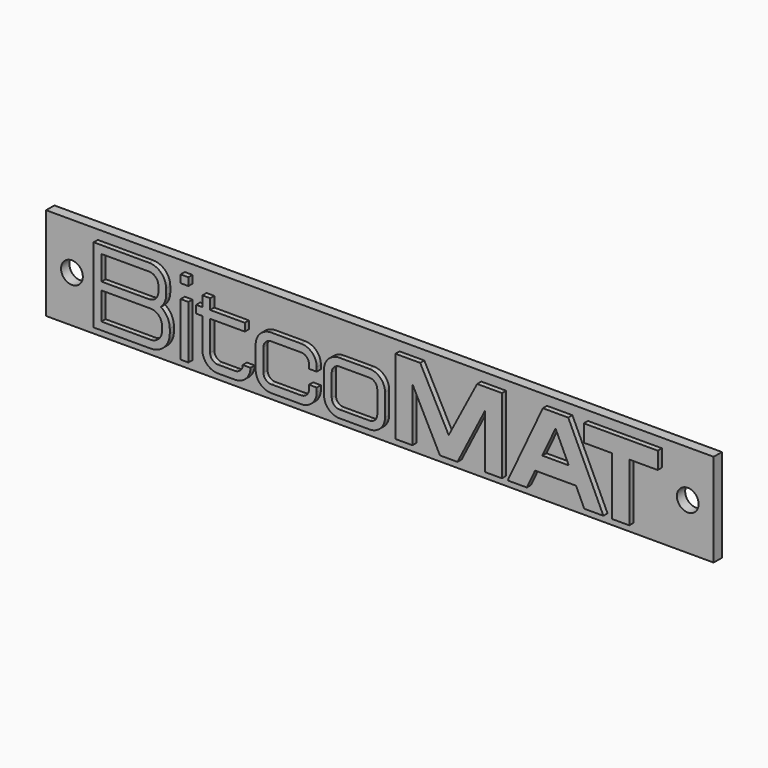
from build123d import *

# Parameters (mm, degrees)
F0_W     = 129
F0_H     = 18
F0_W_2   = 1.5
F0_H_2   = 10.3
F0_R     = 2.1
F0_H_3   = 1.5
F1_DEPTH = 2
F2_DEPTH = 1


with BuildPart() as f1:
    # F0 (on Front) → F1 (new body)
    with BuildSketch(Plane.XZ):
        with Locations((64.5, 9)):
            Rectangle(F0_W, F0_H)
        with Locations((27.55, 6.85)):
            Rectangle(F0_W_2, F0_H_2, mode=Mode.SUBTRACT)
        with BuildLine():
            Line((10, 1.7), (10, 16.2))
            Line((10, 16.2), (20.7, 16.2))
            ThreePointArc((20.7, 16.2), (23.0334523779, 15.2334523779), (24, 12.9))
            Line((24, 12.9), (24, 11.8))
            ThreePointArc((24, 11.8), (23.7362385725, 10.5072295908), (22.9871179813, 9.4211155263))
            ThreePointArc((22.9871179813, 9.4211155263), (24.2436350389, 8.0801212696), (24.7, 6.3))
            Line((24.7, 6.3), (24.7, 5.4))
            ThreePointArc((24.7, 5.4), (23.6162950904, 2.7837049096), (21, 1.7))
            Line((21, 1.7), (10, 1.7))
        make_face(mode=Mode.SUBTRACT)
        with BuildLine():
            Line((32.5, 10.5), (32.5, 4.7))
            ThreePointArc((32.5, 4.7), (32.9393398282, 3.6393398282), (34, 3.2))
            Line((34, 3.2), (37.3, 3.2))
            ThreePointArc((37.3, 3.2), (38.3606601718, 3.6393398282), (38.8, 4.7))
            Line((38.8, 4.7), (40.3, 4.7))
            ThreePointArc((40.3, 4.7), (39.4213203436, 2.5786796564), (37.3, 1.7))
            Line((37.3, 1.7), (34, 1.7))
            ThreePointArc((34, 1.7), (31.8786796564, 2.5786796564), (31, 4.7))
            Line((31, 4.7), (31, 10.5))
            Line((31, 10.5), (29.8, 10.5))
            Line((29.8, 10.5), (29.8, 12))
            Line((29.8, 12), (31, 12))
            Line((31, 12), (31, 14))
            Line((31, 14), (32.5, 14))
            Line((32.5, 14), (32.5, 12))
            Line((32.5, 12), (39.2, 12))
            Line((39.2, 12), (39.2, 10.5))
            Line((39.2, 10.5), (32.5, 10.5))
        make_face(mode=Mode.SUBTRACT)
        with BuildLine():
            Line((50.1, 10.5), (44.3, 10.5))
            ThreePointArc((44.3, 10.5), (43.2393398282, 10.0606601718), (42.8, 9))
            Line((42.8, 9), (42.8, 4.7))
            ThreePointArc((42.8, 4.7), (43.2393398282, 3.6393398282), (44.3, 3.2))
            Line((44.3, 3.2), (50.1, 3.2))
            ThreePointArc((50.1, 3.2), (51.1606601718, 3.6393398282), (51.6, 4.7))
            Line((51.6, 4.7), (51.6, 5.5))
            Line((51.6, 5.5), (53.1, 5.5))
            Line((53.1, 5.5), (53.1, 4.7))
            ThreePointArc((53.1, 4.7), (52.2213203436, 2.5786796564), (50.1, 1.7))
            Line((50.1, 1.7), (44.3, 1.7))
            ThreePointArc((44.3, 1.7), (42.1786796564, 2.5786796564), (41.3, 4.7))
            Line((41.3, 4.7), (41.3, 9))
            ThreePointArc((41.3, 9), (42.1786796564, 11.1213203436), (44.3, 12))
            Line((44.3, 12), (50.1, 12))
            ThreePointArc((50.1, 12), (52.2213203436, 11.1213203436), (53.1, 9))
            Line((53.1, 9), (53.1, 8.2))
            Line((53.1, 8.2), (51.6, 8.2))
            Line((51.6, 8.2), (51.6, 9))
            ThreePointArc((51.6, 9), (51.1606601718, 10.0606601718), (50.1, 10.5))
        make_face(mode=Mode.SUBTRACT)
        with BuildLine():
            ThreePointArc((54.5, 9), (55.3786796564, 11.1213203436), (57.5, 12))
            Line((57.5, 12), (63.3, 12))
            ThreePointArc((63.3, 12), (65.4213203436, 11.1213203436), (66.3, 9))
            Line((66.3, 9), (66.3, 4.7))
            ThreePointArc((66.3, 4.7), (65.4213203436, 2.5786796564), (63.3, 1.7))
            Line((63.3, 1.7), (57.5, 1.7))
            ThreePointArc((57.5, 1.7), (55.3786796564, 2.5786796564), (54.5, 4.7))
            Line((54.5, 4.7), (54.5, 9))
        make_face(mode=Mode.SUBTRACT)
        Polygon((71.6, 12.1), (71.6, 1.7), (68.3, 1.7), (68.3, 16.2), (73.1, 16.2), (78.6, 5.7), (84.1, 16.2), (88.9, 16.2), (88.9, 1.7), (85.6, 1.7), (85.6, 12.1), (80.3, 1.7), (76.9, 1.7), align=None, mode=Mode.SUBTRACT)
        Polygon((93.7, 1.7), (90, 1.7), (96.8, 16.2), (101.7, 16.2), (108.5, 1.7), (104.8, 1.7), (103.2055172414, 5.1), (95.2944827586, 5.1), align=None, mode=Mode.SUBTRACT)
        Polygon((104.7, 12.9), (104.7, 16.2), (119, 16.2), (119, 12.9), (113.5, 12.9), (113.5, 1.7), (110.2, 1.7), (110.2, 12.9), align=None, mode=Mode.SUBTRACT)
        with Locations((5, 9)):
            Circle(F0_R, mode=Mode.SUBTRACT)
        with Locations((27.55, 15.45)):
            Rectangle(F0_W_2, F0_H_3, mode=Mode.SUBTRACT)
        with Locations((124, 9)):
            Circle(F0_R, mode=Mode.SUBTRACT)
        with BuildLine():
            Line((20.7, 16.2), (10, 16.2))
            Line((10, 16.2), (10, 1.7))
            Line((10, 1.7), (21, 1.7))
            ThreePointArc((21, 1.7), (23.6162950904, 2.7837049096), (24.7, 5.4))
            Line((24.7, 5.4), (24.7, 6.3))
            ThreePointArc((24.7, 6.3), (24.2436350389, 8.0801212696), (22.9871179813, 9.4211155263))
            ThreePointArc((22.9871179813, 9.4211155263), (23.7362385725, 10.5072295908), (24, 11.8))
            Line((24, 11.8), (24, 12.9))
            ThreePointArc((24, 12.9), (23.0334523779, 15.2334523779), (20.7, 16.2))
        make_face()
        with BuildLine():
            Line((11.5, 8.5), (21, 8.5))
            ThreePointArc((21, 8.5), (22.5556349186, 7.8556349186), (23.2, 6.3))
            Line((23.2, 6.3), (23.2, 5.4))
            ThreePointArc((23.2, 5.4), (22.5556349186, 3.8443650814), (21, 3.2))
            Line((21, 3.2), (11.5, 3.2))
            Line((11.5, 3.2), (11.5, 8.5))
        make_face(mode=Mode.SUBTRACT)
        with BuildLine():
            Line((11.5, 14.7), (20.7, 14.7))
            ThreePointArc((20.7, 14.7), (21.9727922061, 14.1727922061), (22.5, 12.9))
            Line((22.5, 12.9), (22.5, 11.8))
            ThreePointArc((22.5, 11.8), (21.9727922061, 10.5272077939), (20.7, 10))
            Line((20.7, 10), (11.5, 10))
            Line((11.5, 10), (11.5, 14.7))
        make_face(mode=Mode.SUBTRACT)
        Polygon((68.3, 1.7), (71.6, 1.7), (71.6, 12.1), (76.9, 1.7), (80.3, 1.7), (85.6, 12.1), (85.6, 1.7), (88.9, 1.7), (88.9, 16.2), (84.1, 16.2), (78.6, 5.7), (73.1, 16.2), (68.3, 16.2), align=None)
        Polygon((96.8, 16.2), (90, 1.7), (93.7, 1.7), (95.2944827586, 5.1), (103.2055172414, 5.1), (104.8, 1.7), (108.5, 1.7), (101.7, 16.2), align=None)
        Polygon((99.25, 13.5492647059), (101.8055172414, 8.1), (96.6944827586, 8.1), align=None, mode=Mode.SUBTRACT)
        with BuildLine():
            Line((63.3, 12), (57.5, 12))
            ThreePointArc((57.5, 12), (55.3786796564, 11.1213203436), (54.5, 9))
            Line((54.5, 9), (54.5, 4.7))
            ThreePointArc((54.5, 4.7), (55.3786796564, 2.5786796564), (57.5, 1.7))
            Line((57.5, 1.7), (63.3, 1.7))
            ThreePointArc((63.3, 1.7), (65.4213203436, 2.5786796564), (66.3, 4.7))
            Line((66.3, 4.7), (66.3, 9))
            ThreePointArc((66.3, 9), (65.4213203436, 11.1213203436), (63.3, 12))
        make_face()
        with BuildLine():
            ThreePointArc((56, 9), (56.4393398282, 10.0606601718), (57.5, 10.5))
            Line((57.5, 10.5), (63.3, 10.5))
            ThreePointArc((63.3, 10.5), (64.3606601718, 10.0606601718), (64.8, 9))
            Line((64.8, 9), (64.8, 4.7))
            ThreePointArc((64.8, 4.7), (64.3606601718, 3.6393398282), (63.3, 3.2))
            Line((63.3, 3.2), (57.5, 3.2))
            ThreePointArc((57.5, 3.2), (56.4393398282, 3.6393398282), (56, 4.7))
            Line((56, 4.7), (56, 9))
        make_face(mode=Mode.SUBTRACT)
        Polygon((119, 16.2), (104.7, 16.2), (104.7, 12.9), (110.2, 12.9), (110.2, 1.7), (113.5, 1.7), (113.5, 12.9), (119, 12.9), align=None)
        with BuildLine():
            Line((63.3, 10.5), (57.5, 10.5))
            ThreePointArc((57.5, 10.5), (56.4393398282, 10.0606601718), (56, 9))
            Line((56, 9), (56, 4.7))
            ThreePointArc((56, 4.7), (56.4393398282, 3.6393398282), (57.5, 3.2))
            Line((57.5, 3.2), (63.3, 3.2))
            ThreePointArc((63.3, 3.2), (64.3606601718, 3.6393398282), (64.8, 4.7))
            Line((64.8, 4.7), (64.8, 9))
            ThreePointArc((64.8, 9), (64.3606601718, 10.0606601718), (63.3, 10.5))
        make_face()
        with BuildLine():
            ThreePointArc((23.2, 6.3), (22.5556349186, 7.8556349186), (21, 8.5))
            Line((21, 8.5), (11.5, 8.5))
            Line((11.5, 8.5), (11.5, 3.2))
            Line((11.5, 3.2), (21, 3.2))
            ThreePointArc((21, 3.2), (22.5556349186, 3.8443650814), (23.2, 5.4))
            Line((23.2, 5.4), (23.2, 6.3))
        make_face()
        with BuildLine():
            ThreePointArc((22.5, 12.9), (21.9727922061, 14.1727922061), (20.7, 14.7))
            Line((20.7, 14.7), (11.5, 14.7))
            Line((11.5, 14.7), (11.5, 10))
            Line((11.5, 10), (20.7, 10))
            ThreePointArc((20.7, 10), (21.9727922061, 10.5272077939), (22.5, 11.8))
            Line((22.5, 11.8), (22.5, 12.9))
        make_face()
        with BuildLine():
            ThreePointArc((42.8, 9), (43.2393398282, 10.0606601718), (44.3, 10.5))
            Line((44.3, 10.5), (50.1, 10.5))
            ThreePointArc((50.1, 10.5), (51.1606601718, 10.0606601718), (51.6, 9))
            Line((51.6, 9), (51.6, 8.2))
            Line((51.6, 8.2), (53.1, 8.2))
            Line((53.1, 8.2), (53.1, 9))
            ThreePointArc((53.1, 9), (52.2213203436, 11.1213203436), (50.1, 12))
            Line((50.1, 12), (44.3, 12))
            ThreePointArc((44.3, 12), (42.1786796564, 11.1213203436), (41.3, 9))
            Line((41.3, 9), (41.3, 4.7))
            ThreePointArc((41.3, 4.7), (42.1786796564, 2.5786796564), (44.3, 1.7))
            Line((44.3, 1.7), (50.1, 1.7))
            ThreePointArc((50.1, 1.7), (52.2213203436, 2.5786796564), (53.1, 4.7))
            Line((53.1, 4.7), (53.1, 5.5))
            Line((53.1, 5.5), (51.6, 5.5))
            Line((51.6, 5.5), (51.6, 4.7))
            ThreePointArc((51.6, 4.7), (51.1606601718, 3.6393398282), (50.1, 3.2))
            Line((50.1, 3.2), (44.3, 3.2))
            ThreePointArc((44.3, 3.2), (43.2393398282, 3.6393398282), (42.8, 4.7))
            Line((42.8, 4.7), (42.8, 9))
        make_face()
        with BuildLine():
            ThreePointArc((34, 3.2), (32.9393398282, 3.6393398282), (32.5, 4.7))
            Line((32.5, 4.7), (32.5, 10.5))
            Line((32.5, 10.5), (39.2, 10.5))
            Line((39.2, 10.5), (39.2, 12))
            Line((39.2, 12), (32.5, 12))
            Line((32.5, 12), (32.5, 14))
            Line((32.5, 14), (31, 14))
            Line((31, 14), (31, 12))
            Line((31, 12), (29.8, 12))
            Line((29.8, 12), (29.8, 10.5))
            Line((29.8, 10.5), (31, 10.5))
            Line((31, 10.5), (31, 4.7))
            ThreePointArc((31, 4.7), (31.8786796564, 2.5786796564), (34, 1.7))
            Line((34, 1.7), (37.3, 1.7))
            ThreePointArc((37.3, 1.7), (39.4213203436, 2.5786796564), (40.3, 4.7))
            Line((40.3, 4.7), (38.8, 4.7))
            ThreePointArc((38.8, 4.7), (38.3606601718, 3.6393398282), (37.3, 3.2))
            Line((37.3, 3.2), (34, 3.2))
        make_face()
        with Locations((27.55, 6.85)):
            Rectangle(F0_W_2, F0_H_2)
        Polygon((96.6944827586, 8.1), (101.8055172414, 8.1), (99.25, 13.5492647059), align=None)
        with Locations((27.55, 15.45)):
            Rectangle(F0_W_2, F0_H_3)
    extrude(amount=-F1_DEPTH)

    # F0 (on Front) → F2 (join)
    with BuildSketch(Plane.XZ):
        with BuildLine():
            Line((20.7, 16.2), (10, 16.2))
            Line((10, 16.2), (10, 1.7))
            Line((10, 1.7), (21, 1.7))
            ThreePointArc((21, 1.7), (23.6162950904, 2.7837049096), (24.7, 5.4))
            Line((24.7, 5.4), (24.7, 6.3))
            ThreePointArc((24.7, 6.3), (24.2436350389, 8.0801212696), (22.9871179813, 9.4211155263))
            ThreePointArc((22.9871179813, 9.4211155263), (23.7362385725, 10.5072295908), (24, 11.8))
            Line((24, 11.8), (24, 12.9))
            ThreePointArc((24, 12.9), (23.0334523779, 15.2334523779), (20.7, 16.2))
        make_face()
        with BuildLine():
            Line((11.5, 8.5), (21, 8.5))
            ThreePointArc((21, 8.5), (22.5556349186, 7.8556349186), (23.2, 6.3))
            Line((23.2, 6.3), (23.2, 5.4))
            ThreePointArc((23.2, 5.4), (22.5556349186, 3.8443650814), (21, 3.2))
            Line((21, 3.2), (11.5, 3.2))
            Line((11.5, 3.2), (11.5, 8.5))
        make_face(mode=Mode.SUBTRACT)
        with BuildLine():
            Line((11.5, 14.7), (20.7, 14.7))
            ThreePointArc((20.7, 14.7), (21.9727922061, 14.1727922061), (22.5, 12.9))
            Line((22.5, 12.9), (22.5, 11.8))
            ThreePointArc((22.5, 11.8), (21.9727922061, 10.5272077939), (20.7, 10))
            Line((20.7, 10), (11.5, 10))
            Line((11.5, 10), (11.5, 14.7))
        make_face(mode=Mode.SUBTRACT)
        with Locations((27.55, 6.85)):
            Rectangle(F0_W_2, F0_H_2)
        with Locations((27.55, 15.45)):
            Rectangle(F0_W_2, F0_H_3)
        with BuildLine():
            ThreePointArc((34, 3.2), (32.9393398282, 3.6393398282), (32.5, 4.7))
            Line((32.5, 4.7), (32.5, 10.5))
            Line((32.5, 10.5), (39.2, 10.5))
            Line((39.2, 10.5), (39.2, 12))
            Line((39.2, 12), (32.5, 12))
            Line((32.5, 12), (32.5, 14))
            Line((32.5, 14), (31, 14))
            Line((31, 14), (31, 12))
            Line((31, 12), (29.8, 12))
            Line((29.8, 12), (29.8, 10.5))
            Line((29.8, 10.5), (31, 10.5))
            Line((31, 10.5), (31, 4.7))
            ThreePointArc((31, 4.7), (31.8786796564, 2.5786796564), (34, 1.7))
            Line((34, 1.7), (37.3, 1.7))
            ThreePointArc((37.3, 1.7), (39.4213203436, 2.5786796564), (40.3, 4.7))
            Line((40.3, 4.7), (38.8, 4.7))
            ThreePointArc((38.8, 4.7), (38.3606601718, 3.6393398282), (37.3, 3.2))
            Line((37.3, 3.2), (34, 3.2))
        make_face()
        with BuildLine():
            ThreePointArc((42.8, 9), (43.2393398282, 10.0606601718), (44.3, 10.5))
            Line((44.3, 10.5), (50.1, 10.5))
            ThreePointArc((50.1, 10.5), (51.1606601718, 10.0606601718), (51.6, 9))
            Line((51.6, 9), (51.6, 8.2))
            Line((51.6, 8.2), (53.1, 8.2))
            Line((53.1, 8.2), (53.1, 9))
            ThreePointArc((53.1, 9), (52.2213203436, 11.1213203436), (50.1, 12))
            Line((50.1, 12), (44.3, 12))
            ThreePointArc((44.3, 12), (42.1786796564, 11.1213203436), (41.3, 9))
            Line((41.3, 9), (41.3, 4.7))
            ThreePointArc((41.3, 4.7), (42.1786796564, 2.5786796564), (44.3, 1.7))
            Line((44.3, 1.7), (50.1, 1.7))
            ThreePointArc((50.1, 1.7), (52.2213203436, 2.5786796564), (53.1, 4.7))
            Line((53.1, 4.7), (53.1, 5.5))
            Line((53.1, 5.5), (51.6, 5.5))
            Line((51.6, 5.5), (51.6, 4.7))
            ThreePointArc((51.6, 4.7), (51.1606601718, 3.6393398282), (50.1, 3.2))
            Line((50.1, 3.2), (44.3, 3.2))
            ThreePointArc((44.3, 3.2), (43.2393398282, 3.6393398282), (42.8, 4.7))
            Line((42.8, 4.7), (42.8, 9))
        make_face()
        with BuildLine():
            Line((63.3, 12), (57.5, 12))
            ThreePointArc((57.5, 12), (55.3786796564, 11.1213203436), (54.5, 9))
            Line((54.5, 9), (54.5, 4.7))
            ThreePointArc((54.5, 4.7), (55.3786796564, 2.5786796564), (57.5, 1.7))
            Line((57.5, 1.7), (63.3, 1.7))
            ThreePointArc((63.3, 1.7), (65.4213203436, 2.5786796564), (66.3, 4.7))
            Line((66.3, 4.7), (66.3, 9))
            ThreePointArc((66.3, 9), (65.4213203436, 11.1213203436), (63.3, 12))
        make_face()
        with BuildLine():
            ThreePointArc((56, 9), (56.4393398282, 10.0606601718), (57.5, 10.5))
            Line((57.5, 10.5), (63.3, 10.5))
            ThreePointArc((63.3, 10.5), (64.3606601718, 10.0606601718), (64.8, 9))
            Line((64.8, 9), (64.8, 4.7))
            ThreePointArc((64.8, 4.7), (64.3606601718, 3.6393398282), (63.3, 3.2))
            Line((63.3, 3.2), (57.5, 3.2))
            ThreePointArc((57.5, 3.2), (56.4393398282, 3.6393398282), (56, 4.7))
            Line((56, 4.7), (56, 9))
        make_face(mode=Mode.SUBTRACT)
        Polygon((68.3, 1.7), (71.6, 1.7), (71.6, 12.1), (76.9, 1.7), (80.3, 1.7), (85.6, 12.1), (85.6, 1.7), (88.9, 1.7), (88.9, 16.2), (84.1, 16.2), (78.6, 5.7), (73.1, 16.2), (68.3, 16.2), align=None)
        Polygon((96.8, 16.2), (90, 1.7), (93.7, 1.7), (95.2944827586, 5.1), (103.2055172414, 5.1), (104.8, 1.7), (108.5, 1.7), (101.7, 16.2), align=None)
        Polygon((99.25, 13.5492647059), (101.8055172414, 8.1), (96.6944827586, 8.1), align=None, mode=Mode.SUBTRACT)
        Polygon((119, 16.2), (104.7, 16.2), (104.7, 12.9), (110.2, 12.9), (110.2, 1.7), (113.5, 1.7), (113.5, 12.9), (119, 12.9), align=None)
    extrude(amount=F2_DEPTH)


solid = f1.part
